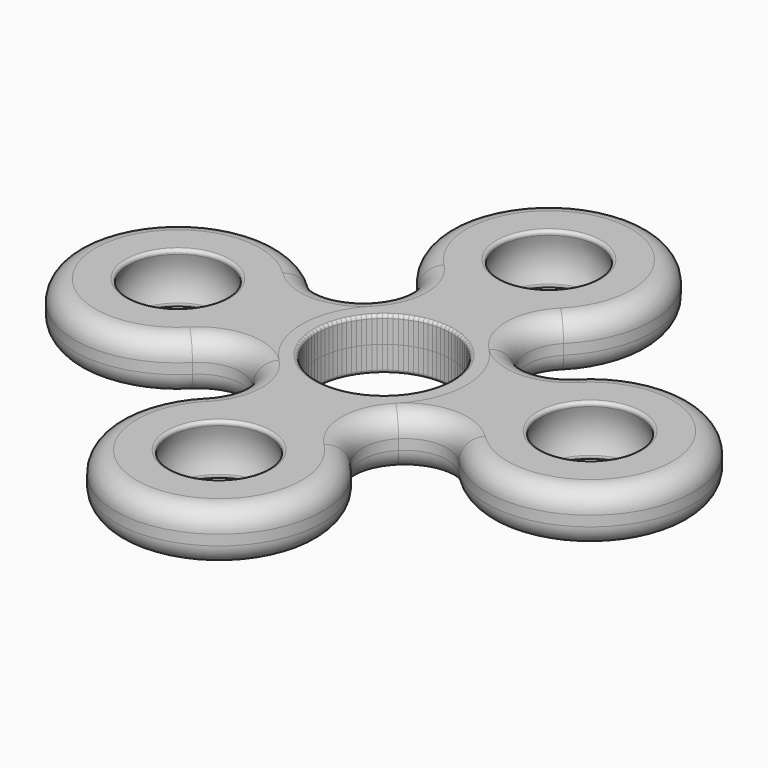
from build123d import *

# Parameters (mm, degrees)
F0_R     = 6.525
F1_DEPTH = 2.5
F2_DEPTH = 2.5
F7_R     = 2
F8_R     = 0.3
F9_COUNT = 2
F9_ANGLE = 90


with BuildPart() as f1:
    # F0 (on Top) → F1 (new body)
    with BuildSketch(Plane.XY):
        with BuildLine():
            ThreePointArc((-12.9288643756, -7.0709999987), (-10, -5.8578081982), (-7.0711356244, -7.0709999987))
            ThreePointArc((-7.0711356244, -7.0709999987), (0, -10), (7.0711356244, -7.0709999987))
            ThreePointArc((7.0711356244, -7.0709999987), (10, -5.8578081982), (12.9288643756, -7.0709999987))
            ThreePointArc((12.9288643756, -7.0709999987), (30, 0), (12.9288643756, 7.0709999987))
            ThreePointArc((12.9288643756, 7.0709999987), (10, 5.8578081982), (7.0711356244, 7.0709999987))
            ThreePointArc((7.0711356244, 7.0709999987), (0, 10), (-7.0711356244, 7.0709999987))
            ThreePointArc((-7.0711356244, 7.0709999987), (-10, 5.8578081982), (-12.9288643756, 7.0709999987))
            ThreePointArc((-12.9288643756, 7.0709999987), (-30, 0), (-12.9288643756, -7.0709999987))
        make_face()
        Circle(F0_R, mode=Mode.SUBTRACT)
    extrude(amount=F1_DEPTH)

    # F2 (add): a face of the model
    f2_faces = [f1.faces().sort_by_distance(p)[0] for p in [
        (-10, -5.2253526661, 0),
    ]]
    extrude(f2_faces, amount=F2_DEPTH)

    # F3 (on Front) → F4 (revolve, cut)
    with BuildSketch(Plane.XZ):
        with BuildLine():
            Line((-20, -5.23), (-20, 5.23))
            ThreePointArc((-20, 5.23), (-25.23, 0), (-20, -5.23))
        make_face()
    revolve(axis=Axis((-20, 0, 0), (0, 0, -1)), mode=Mode.SUBTRACT)

    # F5 (on Front) → F6 (revolve, cut)
    with BuildSketch(Plane.XZ):
        with BuildLine():
            Line((20, 5.23), (20, -5.23))
            ThreePointArc((20, -5.23), (25.23, 0), (20, 5.23))
        make_face()
    revolve(axis=Axis((20, 0, 0), (0, 0, -1)), mode=Mode.SUBTRACT)

    # F7
    f7_edges = [f1.edges().sort_by_distance(p)[0] for p in [
        (-10, -5.857808, -2.5),
        (0, -10, 2.5),
    ]]
    fillet(f7_edges, radius=F7_R)

    # F8
    f8_edges = [f1.edges().sort_by_distance(p)[0] for p in [
        (15.406211, 0, -2.5),
        (25.23, 0, 0),
        (15.406211, 0, 2.5),
        (-6.525, 0, 2.5),
        (6.525, 0, 0),
        (-6.525, 0, -2.5),
        (-15.406211, 0, 2.5),
        (-25.23, 0, 0),
        (-15.406211, 0, -2.5),
    ]]
    fillet(f8_edges, radius=F8_R)


with BuildPart() as f9_1:
    # F9: instance of F1
    add(f1.part.rotate(Axis((0, 0, 2.2), (0, 0, 1)), 1 * F9_ANGLE / (F9_COUNT - 1)))


solid = Compound([f1.part, f9_1.part])
